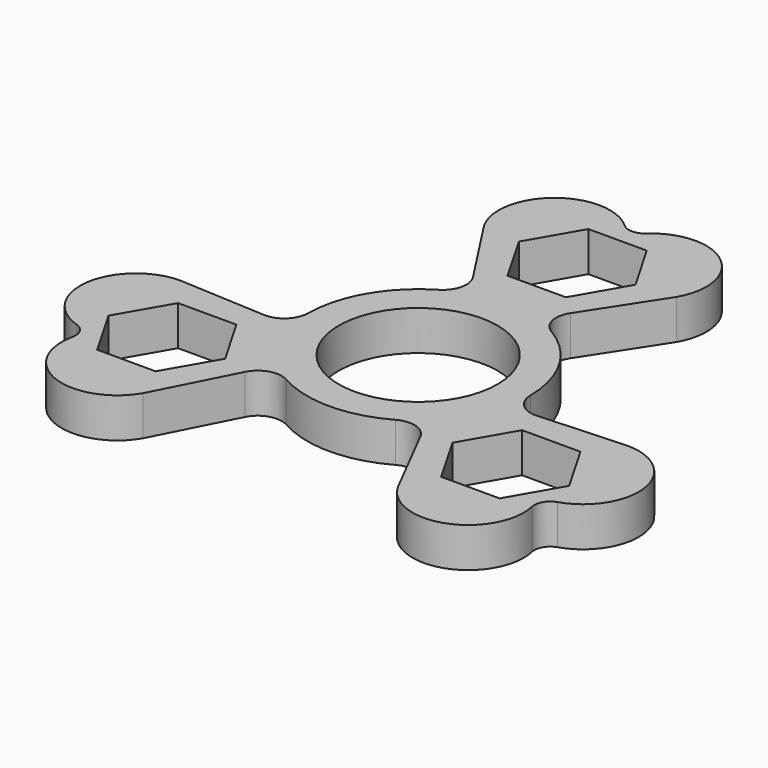
from build123d import *

# Parameters (mm, degrees)
F0_R     = 10
F1_DEPTH = 5


with BuildPart() as f1:
    # F0 (on Top) → F1 (new body)
    with BuildSketch(Plane.XY):
        with BuildLine():
            ThreePointArc((-6.879631, -12.178133), (-12.125541, -6.984406), (-14.000485, 0.155548))
            ThreePointArc((-14.000485, 0.155548), (-14.946175, -2.00088), (-17.157343, -2.81035))
            Line((-17.157343, -2.81035), (-28.147011, -2.234406))
            ThreePointArc((-28.147011, -2.234406), (-35.064082, -8.160102), (-30.270165, -15.904655))
            ThreePointArc((-30.270165, -15.904655), (-29.14473, -16.81044), (-28.923015, -18.237988))
            ThreePointArc((-28.923015, -18.237988), (-24.612993, -26.261918), (-16.022655, -23.234406))
            Line((-16.022655, -23.234406), (-11.026604, -13.429103))
            ThreePointArc((-11.026604, -13.429103), (-9.219997, -11.91891), (-6.879631, -12.178133))
        make_face()
        Polygon((-28.995716, -12.484406), (-25.323768, -6.124406), (-17.979872, -6.124406), (-14.307925, -12.484406), (-17.979872, -18.844406), (-25.323768, -18.844406), align=None, mode=Mode.SUBTRACT)
        with BuildLine():
            ThreePointArc((13.998115, 0.155548), (12.123171, 7.015594), (7.119669, 12.069366))
            ThreePointArc((7.119669, 12.069366), (-0.001185, 14.015594), (-7.122039, 12.069366))
            ThreePointArc((-7.122039, 12.069366), (-12.125541, 7.015594), (-14.000485, 0.155548))
            ThreePointArc((-14.000485, 0.155548), (-12.125541, -6.984406), (-6.879631, -12.178133))
            ThreePointArc((-6.879631, -12.178133), (-0.001185, -13.984406), (6.877261, -12.178133))
            ThreePointArc((6.877261, -12.178133), (12.08803, -7.044922), (13.998815, 0.015594))
            ThreePointArc((13.998815, 0.015594), (13.99864, 0.085572), (13.998115, 0.155548))
        make_face()
        Circle(F0_R, mode=Mode.SUBTRACT)
        with BuildLine():
            ThreePointArc((17.154973, -2.81035), (14.943805, -2.00088), (13.998115, 0.155548))
            ThreePointArc((13.998115, 0.155548), (13.99864, 0.085572), (13.998815, 0.015594))
            ThreePointArc((13.998815, 0.015594), (12.08803, -7.044922), (6.877261, -12.178133))
            ThreePointArc((6.877261, -12.178133), (9.217627, -11.91891), (11.024233, -13.429103))
            Line((11.024233, -13.429103), (16.020285, -23.234406))
            ThreePointArc((16.020285, -23.234406), (24.610623, -26.261918), (28.920645, -18.237988))
            ThreePointArc((28.920645, -18.237988), (29.14236, -16.81044), (30.267795, -15.904655))
            ThreePointArc((30.267795, -15.904655), (35.061711, -8.160102), (28.144641, -2.234406))
            Line((28.144641, -2.234406), (17.154973, -2.81035))
        make_face()
        Polygon((25.321398, -18.844406), (17.977502, -18.844406), (14.305555, -12.484406), (17.977502, -6.124406), (25.321398, -6.124406), (28.993345, -12.484406), align=None, mode=Mode.SUBTRACT)
        with BuildLine():
            ThreePointArc((7.119669, 12.069366), (5.724993, 13.966571), (6.129555, 16.286235))
            Line((6.129555, 16.286235), (12.123171, 25.515594))
            ThreePointArc((12.123171, 25.515594), (10.449903, 34.468801), (1.345966, 34.189424))
            ThreePointArc((1.345966, 34.189424), (-0.001185, 33.667661), (-1.348336, 34.189424))
            ThreePointArc((-1.348336, 34.189424), (-10.452273, 34.468801), (-12.125541, 25.515594))
            Line((-12.125541, 25.515594), (-6.131925, 16.286235))
            ThreePointArc((-6.131925, 16.286235), (-5.727363, 13.966571), (-7.122039, 12.069366))
            ThreePointArc((-7.122039, 12.069366), (-0.001185, 14.015594), (7.119669, 12.069366))
        make_face()
        Polygon((-7.34508, 25.015594), (-3.673133, 31.375594), (3.670763, 31.375594), (7.34271, 25.015594), (3.670763, 18.655594), (-3.673133, 18.655594), align=None, mode=Mode.SUBTRACT)
    extrude(amount=F1_DEPTH)


solid = f1.part
